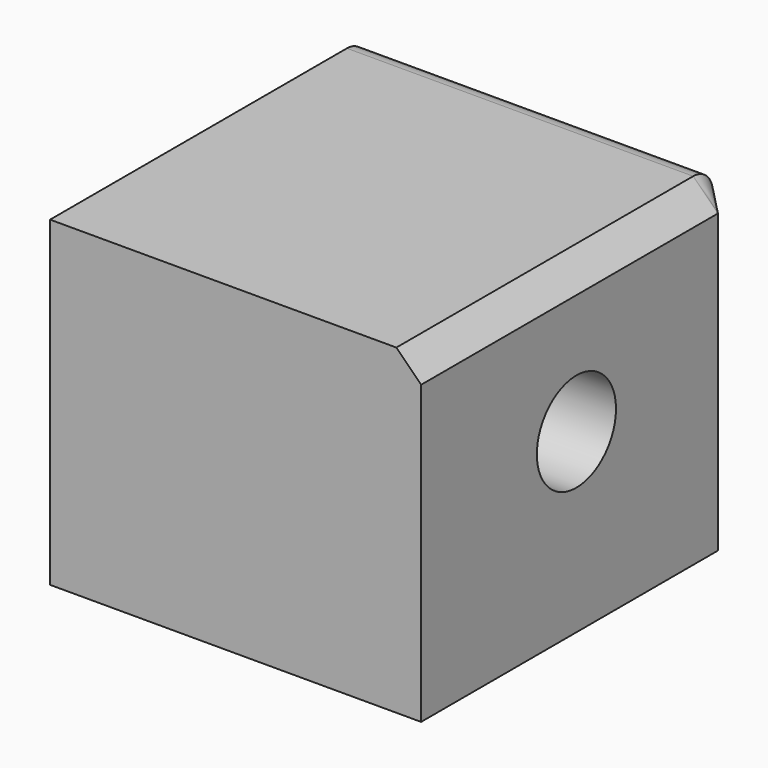
from build123d import *

# Parameters (mm, degrees)
F0_W     = 160
F0_H     = 130
F1_DEPTH = 150
F2_R     = 10
F3_SIZE  = 10
F4_R     = 20
F5_DEPTH = 265


with BuildPart() as f1:
    # F0 (on Right) → F1 (new body)
    with BuildSketch(Plane.YZ):
        with Locations((80, 65)):
            Rectangle(F0_W, F0_H)
    extrude(amount=F1_DEPTH)

    # F2
    f2_edges = [f1.edges().sort_by_distance(p)[0] for p in [
        (75, 160, 130),
    ]]
    fillet(f2_edges, radius=F2_R)

    # F3
    f3_edges = [f1.edges().sort_by_distance(p)[0] for p in [
        (150, 75, 130),
        (150, 160, 60),
        (150, 157.071068, 127.071068),
    ]]
    chamfer(f3_edges, length=F3_SIZE)

    # F4 (on face) → F5 (cut)
    with BuildSketch(Plane.YZ.offset(150)):
        with Locations((78.493013978, 71.4490786195)):
            Circle(F4_R)
    extrude(amount=-F5_DEPTH, mode=Mode.SUBTRACT)


solid = f1.part
